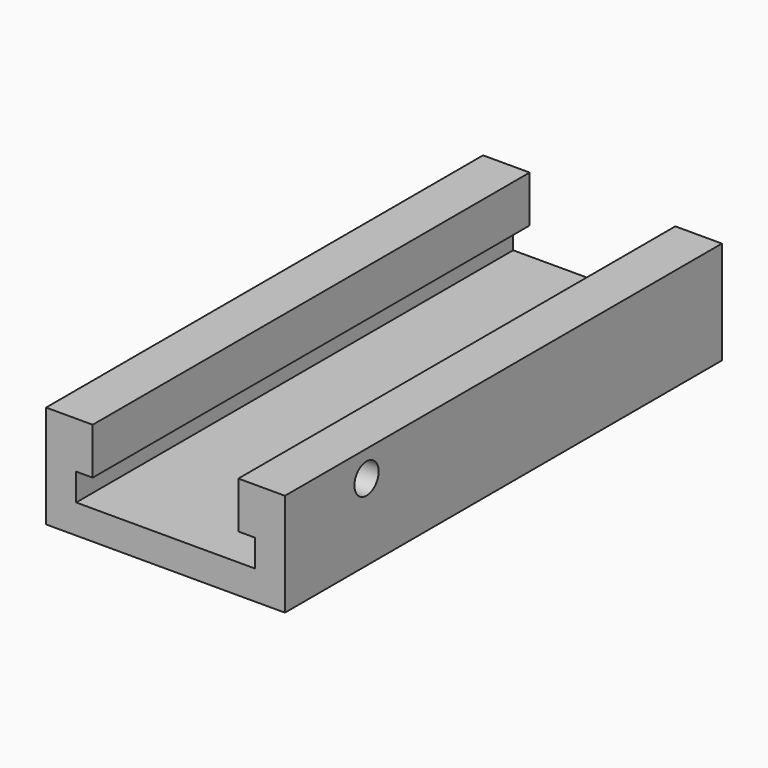
from build123d import *

# Parameters (mm, degrees)
F1_DEPTH = 71.4375
F2_R     = 1.9812
F3_DEPTH = 6.096


with BuildPart() as f1:
    # F0 (on Front) → F1 (new body)
    with BuildSketch(Plane.XZ):
        Polygon((3.181334, 6.092442), (3.181334, 12.188442), (-2.914666, 12.188442), (-2.914666, -1.273558), (28.327334, -1.273558), (28.327334, 12.188442), (22.231334, 12.188442), (22.231334, 6.092442), (24.390334, 6.092442), (24.390334, 2.536442), (1.022334, 2.536442), (1.022334, 6.092442), align=None)
    extrude(amount=F1_DEPTH)

    # F2 (on face) → F3 (cut, through all)
    with BuildSketch(Plane.YZ.offset(28.327334)):
        with Locations((-58.1025, 8.759442)):
            Circle(F2_R)
    extrude(amount=-F3_DEPTH, mode=Mode.SUBTRACT)


solid = f1.part
